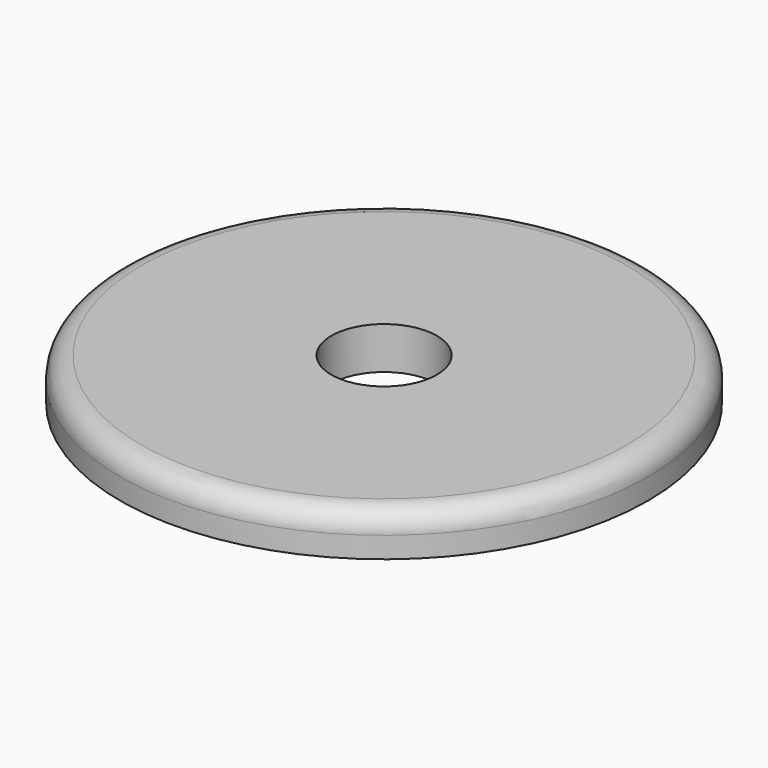
from build123d import *

# Parameters (mm, degrees)
F0_R     = 12.5
F1_DEPTH = 2
F2_R     = 1
F3_R     = 2.5
F4_DEPTH = 25.4


with BuildPart() as f1:
    # F0 (on Top) → F1 (new body)
    with BuildSketch(Plane.XY):
        Circle(F0_R)
    extrude(amount=F1_DEPTH)

    # F2
    f2_edges = [f1.edges().sort_by_distance(p)[0] for p in [
        (-12.5, 0, 2),
    ]]
    fillet(f2_edges, radius=F2_R)

    # F3 (on face) → F4 (cut)
    with BuildSketch(Plane(origin=(0, 0, 0), x_dir=(1, 0, 0), z_dir=(0, 0, -1))):
        Circle(F3_R)
    extrude(amount=-F4_DEPTH, mode=Mode.SUBTRACT)


solid = f1.part
